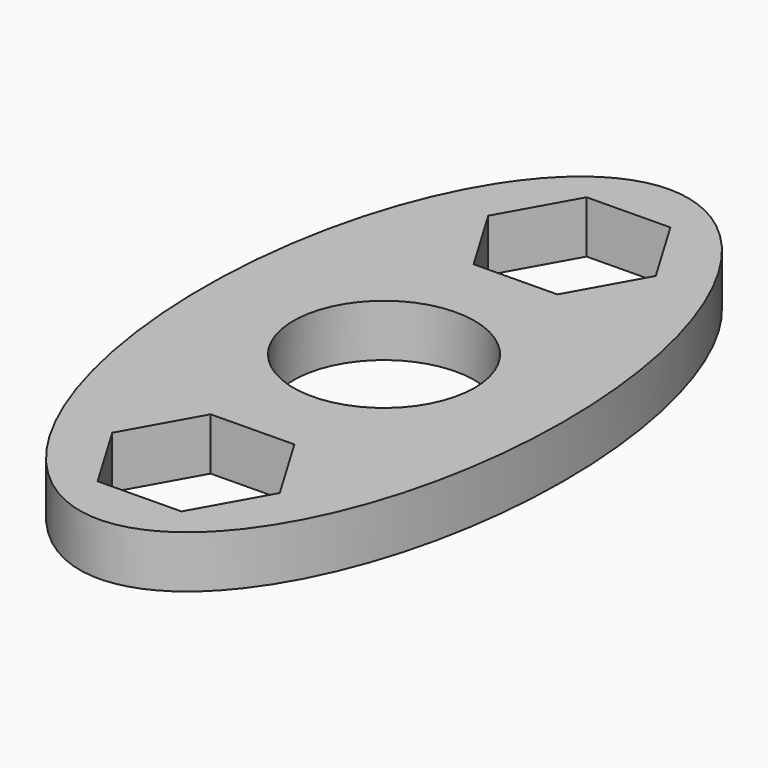
from build123d import *

# Parameters (mm, degrees)
F0_R     = 14.2875
F0_R_2   = 11.0236
F1_DEPTH = 6.35


with BuildPart() as f1:
    # F0 (on Top) → F1 (new body)
    with BuildSketch(Plane.XY):
        with BuildLine():
            add(Edge.make_bspline(
                [(0, 43.419671), (-38.073349, 43.419671), (-19.036674, -21.709836), (0, -86.839342), (19.036674, -21.709836), (38.073349, 43.419671), (0, 43.419671)],
                knots=[0, 0, 0, 2.094395, 2.094395, 4.18879, 4.18879, 6.283185, 6.283185, 6.283185], degree=2, weights=[1, 0.5, 1, 0.5, 1, 0.5, 1]))
        make_face()
        Polygon((6.210255, -17.346334), (12.829438, -28.338905), (6.619183, -39.567571), (-6.210255, -39.803666), (-12.829438, -28.811095), (-6.619183, -17.582429), align=None, mode=Mode.SUBTRACT)
        Polygon((-6.619183, 39.567571), (6.210255, 39.803666), (12.829438, 28.811095), (6.619183, 17.582429), (-6.210255, 17.346334), (-12.829438, 28.338905), align=None, mode=Mode.SUBTRACT)
        Circle(F0_R, mode=Mode.SUBTRACT)
        Polygon((12.829438, 28.811095), (6.210255, 39.803666), (-6.619183, 39.567571), (-12.829438, 28.338905), (-6.210255, 17.346334), (6.619183, 17.582429), align=None)
        Polygon((4.926087, 37.371588), (10.081113, 28.707177), (5.155025, 19.910589), (-4.926087, 19.778412), (-10.081113, 28.442823), (-5.155025, 37.239411), align=None, mode=Mode.SUBTRACT)
        Circle(F0_R)
        Circle(F0_R_2, mode=Mode.SUBTRACT)
        Polygon((6.619183, -39.567571), (12.829438, -28.338905), (6.210255, -17.346334), (-6.619183, -17.582429), (-12.829438, -28.811095), (-6.210255, -39.803666), align=None)
        Polygon((10.081113, -28.442823), (5.155025, -37.239411), (-4.926087, -37.371588), (-10.081113, -28.707177), (-5.155025, -19.910589), (4.926087, -19.778412), align=None, mode=Mode.SUBTRACT)
    extrude(amount=F1_DEPTH)


solid = f1.part
